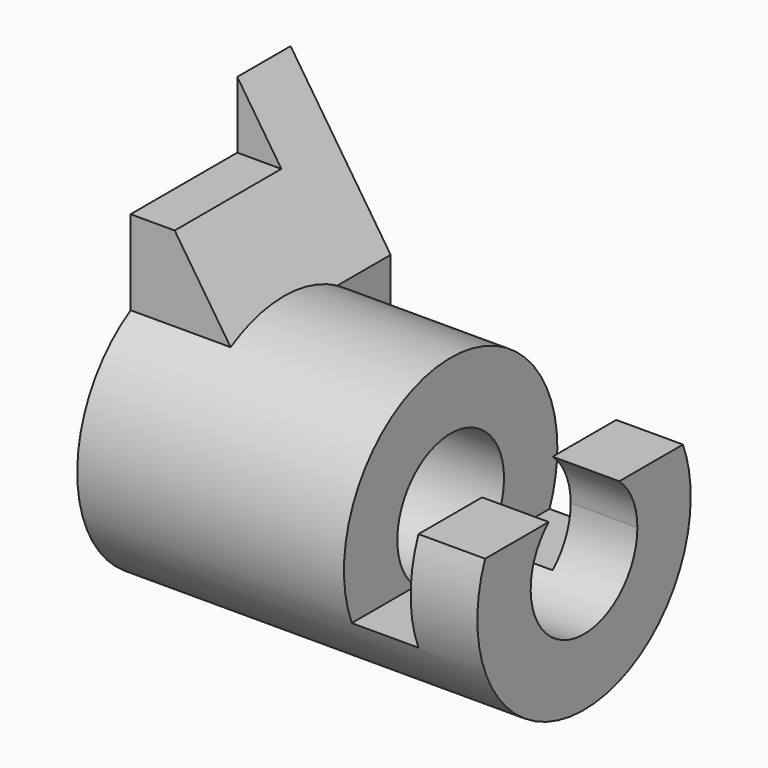
from build123d import *

# Parameters (mm, degrees)
F0_R          = 25.4
F0_R_2        = 12.7
F1_DEPTH      = 76.2
F3_DEPTH      = 25.4
F3_DEPTH_BACK = 25.4
F5_DEPTH      = 19.05
F6_W          = 25.4
F6_H          = 12.7
F7_DEPTH      = 25.4
F9_DEPTH      = 25.401
F9_DEPTH_BACK = 25.4


with BuildPart() as f1:
    # F0 (on Right) → F1 (new body)
    with BuildSketch(Plane.YZ):
        Circle(F0_R)
        Circle(F0_R_2, mode=Mode.SUBTRACT)
    extrude(amount=F1_DEPTH)

    # F2 (on Front) → F3 (cut, two sides)
    with BuildSketch(Plane.XZ) as f3_sk:
        Polygon((76.2, 25.4), (50.8, 25.4), (50.8, -9.525), (63.5, -9.525), (63.5, 9.525), (76.2, 9.525), align=None)
    extrude(amount=-F3_DEPTH, mode=Mode.SUBTRACT)
    extrude(f3_sk.sketch, amount=F3_DEPTH_BACK, mode=Mode.SUBTRACT)

    # F4 (on Right) → F5 (join)
    with BuildSketch(Plane.YZ):
        with BuildLine():
            Line((-12.7, 50.8), (-12.7, 0))
            ThreePointArc((-12.7, 0), (0, 12.7), (12.7, 0))
            Line((12.7, 0), (25.4, 0))
            Line((25.4, 0), (25.4, 50.8))
            Line((25.4, 50.8), (-12.7, 50.8))
        make_face()
    extrude(amount=F5_DEPTH)

    # F6 (on Right) → F7 (cut)
    with BuildSketch(Plane.YZ):
        with Locations((0, 44.45)):
            Rectangle(F6_W, F6_H)
    extrude(amount=F7_DEPTH, mode=Mode.SUBTRACT)

    # F8 (on Front) → F9 (cut, two sides)
    with BuildSketch(Plane.XZ) as f9_sk:
        Polygon((19.05, 50.8), (0, 50.8), (19.05, 21.9970452561), align=None)
    extrude(amount=F9_DEPTH, mode=Mode.SUBTRACT)
    extrude(f9_sk.sketch, amount=-F9_DEPTH_BACK, mode=Mode.SUBTRACT)


solid = f1.part
